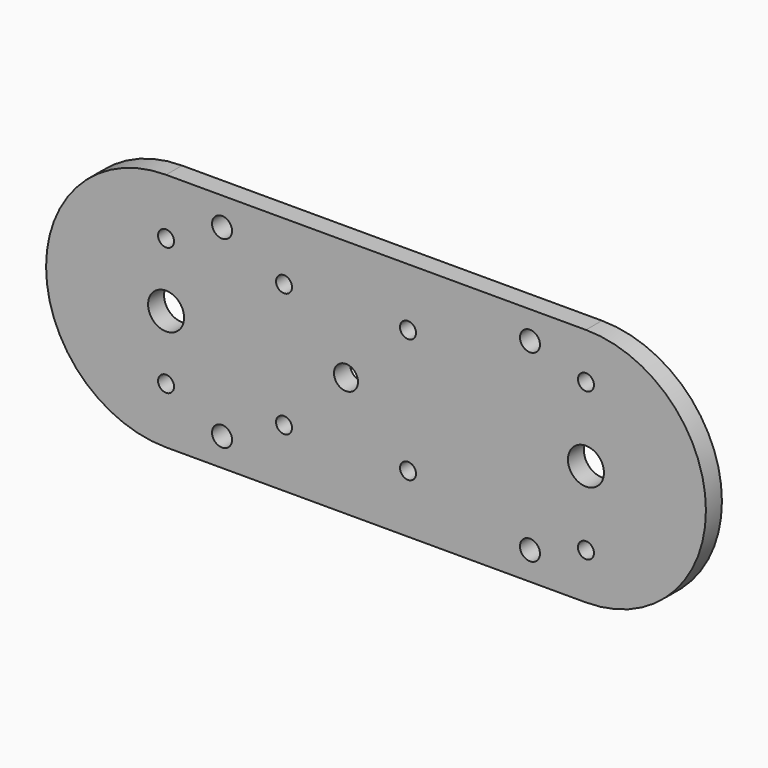
from build123d import *

# Parameters (mm, degrees)
F0_R     = 2
F0_R_2   = 2.5
F0_R_3   = 4.5
F0_R_4   = 3
F1_DEPTH = 5


with BuildPart() as f1:
    # F0 (on Front) → F1 (new body)
    with BuildSketch(Plane.XZ):
        with BuildLine():
            ThreePointArc((52.500001, -30), (82.5, 1e-06), (52.5, 30))
            Line((52.5, 30), (-52.500001, 30))
            ThreePointArc((-52.500001, 30), (-82.500001, -1e-06), (-52.5, -30))
            Line((-52.5, -30), (52.500001, -30))
        make_face()
        with Locations((-52.500003, -16)):
            Circle(F0_R, mode=Mode.SUBTRACT)
        with Locations((-38.5, -23.000001)):
            Circle(F0_R_2, mode=Mode.SUBTRACT)
        with Locations((-23, -15.5)):
            Circle(F0_R, mode=Mode.SUBTRACT)
        with Locations((38.499999, -23.000001)):
            Circle(F0_R_2, mode=Mode.SUBTRACT)
        with Locations((8, -15.5)):
            Circle(F0_R, mode=Mode.SUBTRACT)
        with Locations((52.499999, -18.5)):
            Circle(F0_R, mode=Mode.SUBTRACT)
        with Locations((-52.500001, 0)):
            Circle(F0_R_3, mode=Mode.SUBTRACT)
        with Locations((-7.5, 0)):
            Circle(F0_R_4, mode=Mode.SUBTRACT)
        with Locations((-52.500003, 16)):
            Circle(F0_R, mode=Mode.SUBTRACT)
        with Locations((-23, 15.5)):
            Circle(F0_R, mode=Mode.SUBTRACT)
        with Locations((-38.499999, 23.000001)):
            Circle(F0_R_2, mode=Mode.SUBTRACT)
        with Locations((52.5, 0)):
            Circle(F0_R_3, mode=Mode.SUBTRACT)
        with Locations((8, 15.5)):
            Circle(F0_R, mode=Mode.SUBTRACT)
        with Locations((38.5, 23.000001)):
            Circle(F0_R_2, mode=Mode.SUBTRACT)
        with Locations((52.499999, 18.5)):
            Circle(F0_R, mode=Mode.SUBTRACT)
    extrude(amount=F1_DEPTH)


solid = f1.part
